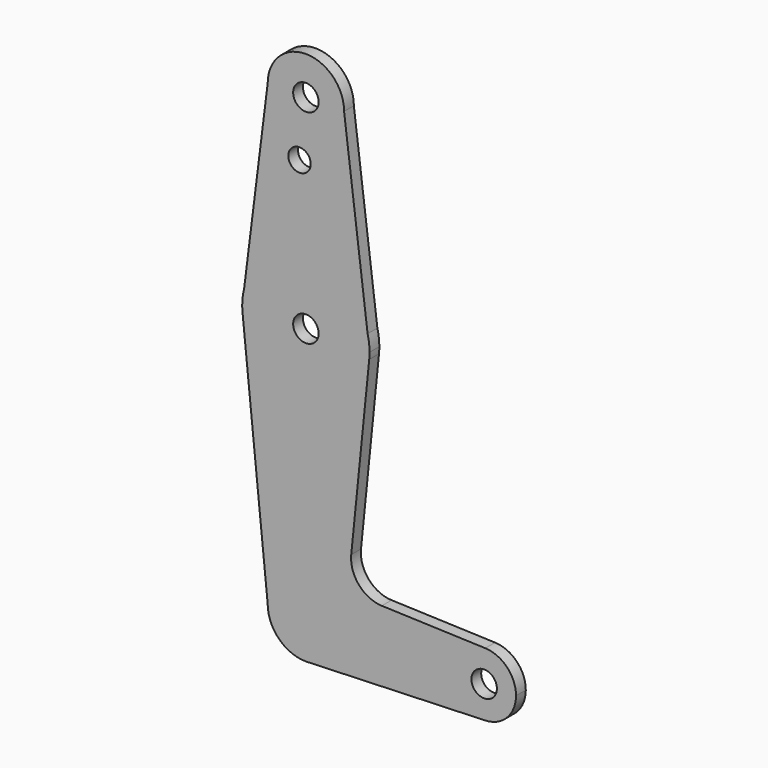
from build123d import *

# Parameters (mm, degrees)
F0_R     = 3.175
F0_R_2   = 2.800496
F1_DEPTH = 3.048


with BuildPart() as f1:
    # F0 (on Front) → F1 (new body)
    with BuildSketch(Plane.XZ):
        with BuildLine():
            ThreePointArc((0.677344, -9.500886), (6.970557, -6.491299), (9.525, 0))
            ThreePointArc((9.525, 0), (0, 9.525), (-9.525, 0))
            ThreePointArc((-9.525, 0), (-6.735192, -6.735192), (0, -9.525))
            Line((0, -9.525), (0.677344, -9.500886))
        make_face()
        with BuildLine():
            ThreePointArc((-9.525, 0), (0, 9.525), (9.525, 0))
            ThreePointArc((9.525, 0), (6.970557, -6.491299), (0.677344, -9.500886))
            Line((0.677344, -9.500886), (44.732405, -7.932475))
            ThreePointArc((44.732405, -7.932475), (36.5125, 0), (44.732405, 7.932475))
            Line((44.732405, 7.932475), (18.934103, 8.850924))
            ThreePointArc((18.934103, 8.850924), (13.224974, 11.57098), (11.307223, 17.59718))
            Line((11.307223, 17.59718), (15.794203, 61.90038))
            ThreePointArc((15.794203, 61.90038), (0, 47.625), (-15.794203, 61.90038))
            Line((-15.794203, 61.90038), (-9.525, 0))
        make_face()
        with BuildLine():
            ThreePointArc((0, -9.525), (0.338886, -9.51897), (0.677344, -9.500886))
            Line((0.677344, -9.500886), (0, -9.525))
        make_face()
        with BuildLine():
            ThreePointArc((-15.875, 63.5), (-15.854788, 62.699171), (-15.794203, 61.90038))
            ThreePointArc((-15.794203, 61.90038), (0, 47.625), (15.794203, 61.90038))
            ThreePointArc((15.794203, 61.90038), (15.854788, 62.699171), (15.875, 63.5))
            Line((15.875, 63.5), (15.386538, 67.407692))
            ThreePointArc((15.386538, 67.407692), (0, 79.375), (-15.386538, 67.407692))
            Line((-15.386538, 67.407692), (-15.875, 63.5))
        make_face()
        with Locations((0, 63.5)):
            Circle(F0_R, mode=Mode.SUBTRACT)
        with BuildLine():
            ThreePointArc((44.732405, 7.932475), (36.5125, 0), (44.732405, -7.932475))
            ThreePointArc((44.732405, -7.932475), (50.161633, -5.51191), (52.3875, 0))
            ThreePointArc((52.3875, 0), (50.161633, 5.51191), (44.732405, 7.932475))
        make_face()
        with Locations((44.45, 0)):
            Circle(F0_R, mode=Mode.SUBTRACT)
        with BuildLine():
            ThreePointArc((-15.386538, 67.407692), (-15.752411, 65.469051), (-15.875, 63.5))
            Line((-15.875, 63.5), (-15.386538, 67.407692))
        make_face()
        with BuildLine():
            Line((-9.525, 114.3), (-15.386538, 67.407692))
            ThreePointArc((-15.386538, 67.407692), (0, 79.375), (15.386538, 67.407692))
            Line((15.386538, 67.407692), (9.525, 114.3))
            ThreePointArc((9.525, 114.3), (0, 104.775), (-9.525, 114.3))
        make_face()
        with Locations((-1.5875, 100.0252)):
            Circle(F0_R_2, mode=Mode.SUBTRACT)
        with BuildLine():
            Line((15.386538, 67.407692), (15.875, 63.5))
            ThreePointArc((15.875, 63.5), (15.752411, 65.469051), (15.386538, 67.407692))
        make_face()
        with BuildLine():
            ThreePointArc((9.525, 114.3), (0, 123.825), (-9.525, 114.3))
            ThreePointArc((-9.525, 114.3), (0, 104.775), (9.525, 114.3))
        make_face()
        with Locations((0, 114.3)):
            Circle(F0_R, mode=Mode.SUBTRACT)
    extrude(amount=F1_DEPTH)


solid = f1.part
